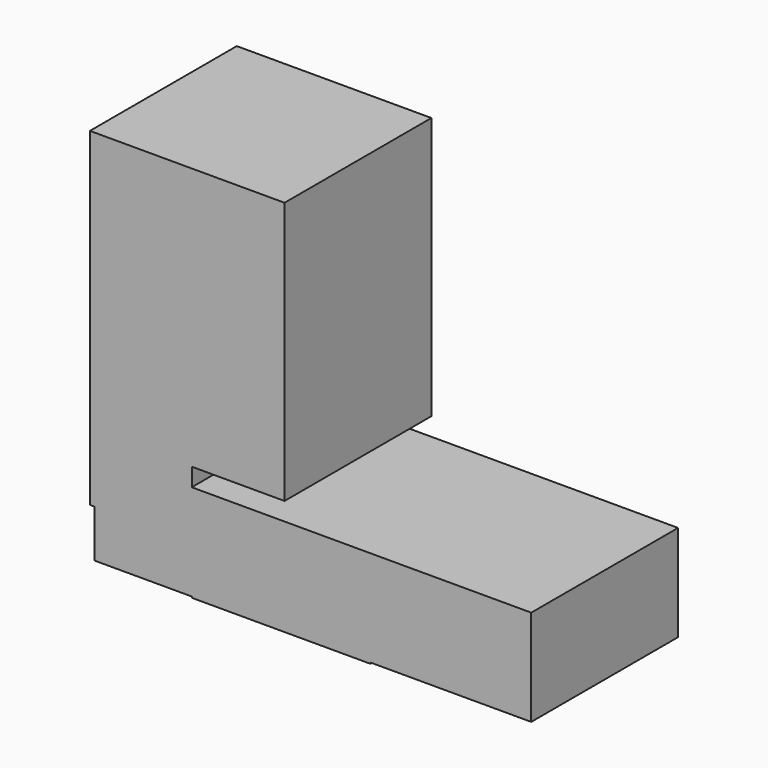
from build123d import *

# Parameters (mm, degrees)
F0_W     = 13.4654790163
F0_H     = 6.7327402066
F0_H_2   = 6.5761648584
F0_W_2   = 22.2336961131
F0_H_3   = 13.3089050651
F0_W_3   = 24.73890463
F0_H_4   = 0.1565753482
F1_DEPTH = 25.4


with BuildPart() as f1:
    # F0 (on Front) → F1 (new body)
    with BuildSketch(Plane.XZ):
        Polygon((-38.204383105, 6.5761648584), (-38.204383105, 13.3089050651), (-24.7389040887, 13.3089050651), (-24.7389040887, 15.8141106367), (-38.8306863606, 15.8141106367), (-38.8306863606, 6.5761648584), align=None)
        with Locations((-31.4716435969, 9.9425349617)):
            Rectangle(F0_W, F0_H)
        Polygon((5.413e-07, 13.3089050651), (-24.7389040887, 13.3089050651), (-24.7389040887, 6.5761648584), (-24.7389040887, 0), (5.413e-07, 0), align=None)
        with Locations((-31.4716435969, 3.2880824292)):
            Rectangle(F0_W, F0_H_2)
        with Locations((11.1168485979, 6.6544525325)):
            Rectangle(F0_W_2, F0_H_3)
        Polygon((-38.8306863606, 15.8141106367), (-24.7389040887, 15.8141106367), (-11.899725534, 15.8141106367), (-11.899725534, 52.1395914257), (-38.8306863606, 52.1395914257), align=None)
        with Locations((-12.3694517737, -0.0782876741)):
            Rectangle(F0_W_3, F0_H_4)
    extrude(amount=F1_DEPTH)


solid = f1.part
